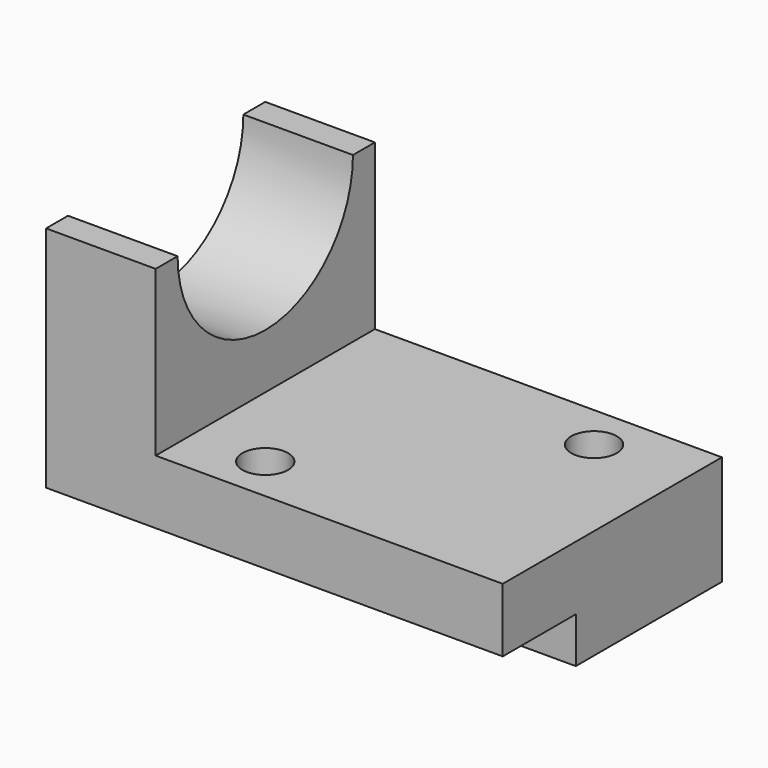
from build123d import *

# Parameters (mm, degrees)
F0_W     = 2540
F0_H     = 1524
F1_DEPTH = 1524
F2_W     = 1930.4
F2_H     = 914.4
F3_DEPTH = 1524
F4_W     = 508
F4_H     = 254
F5_DEPTH = 2540
F7_DEPTH = 609.6
F9_DEPTH = 609.6


with BuildPart() as f1:
    # F0 (on Front) → F1 (new body)
    with BuildSketch(Plane.XZ):
        with Locations((1270, 762)):
            Rectangle(F0_W, F0_H)
    extrude(amount=F1_DEPTH)

    # F2 (on face) → F3 (cut)
    with BuildSketch(Plane.XZ.offset(1524)):
        with Locations((1574.8, 1066.8)):
            Rectangle(F2_W, F2_H)
    extrude(amount=-F3_DEPTH, mode=Mode.SUBTRACT)

    # F4 (on face) → F5 (cut)
    with BuildSketch(Plane.YZ.offset(2540)):
        with Locations((-1270, 127)):
            Rectangle(F4_W, F4_H)
    extrude(amount=-F5_DEPTH, mode=Mode.SUBTRACT)

    # F6 (on face) → F7 (cut)
    with BuildSketch(Plane.YZ.offset(609.6)):
        with BuildLine():
            Line((-762, 1524), (-1371.6, 1524))
            ThreePointArc((-1371.6, 1524), (-762, 914.4), (-152.4, 1524))
            Line((-152.4, 1524), (-762, 1524))
        make_face()
    extrude(amount=-F7_DEPTH, mode=Mode.SUBTRACT)

    # F8 (on face) → F9 (cut)
    with BuildSketch(Plane.XY.offset(609.6)):
        with BuildLine():
            Line((1016, -1270), (889, -1270))
            ThreePointArc((889, -1270), (926.1974387893, -1359.8025612107), (1016, -1397))
            Line((1016, -1397), (1016, -1270))
        make_face()
        with BuildLine():
            ThreePointArc((1143, -1270), (1016, -1143), (889, -1270))
            Line((889, -1270), (1016, -1270))
            Line((1016, -1270), (1016, -1397))
            ThreePointArc((1016, -1397), (1105.8025612107, -1359.8025612107), (1143, -1270))
        make_face()
        with BuildLine():
            Line((2032, -254), (2032, -127))
            ThreePointArc((2032, -127), (1942.1974387893, -343.8025612107), (2159, -254))
            Line((2159, -254), (2032, -254))
        make_face()
        with BuildLine():
            ThreePointArc((2159, -254), (2121.8025612107, -164.1974387893), (2032, -127))
            Line((2032, -127), (2032, -254))
            Line((2032, -254), (2159, -254))
        make_face()
    extrude(amount=-F9_DEPTH, mode=Mode.SUBTRACT)


solid = f1.part
